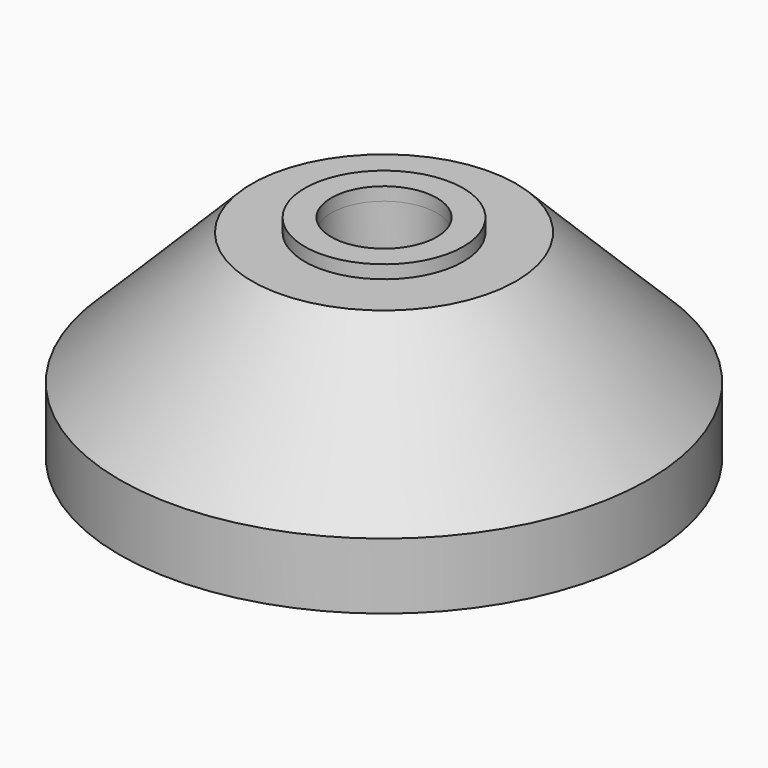
from build123d import *

# Parameters (mm, degrees)
F0_R     = 20
F1_DEPTH = 15
F2_SIZE  = 10
F3_R     = 6
F3_R_2   = 4
F4_DEPTH = 1
F5_R     = 4
F6_DEPTH = 15.001
F7_R     = 10
F8_DEPTH = 10
F9_R     = 1


with BuildPart() as f1:
    # F0 (on Top) → F1 (new body)
    with BuildSketch(Plane.XY):
        Circle(F0_R)
    extrude(amount=F1_DEPTH)

    # F2
    f2_edges = [f1.edges().sort_by_distance(p)[0] for p in [
        (-20, 0, 15),
    ]]
    chamfer(f2_edges, length=F2_SIZE)

    # F3 (on face) → F4 (join)
    with BuildSketch(Plane.XY.offset(15)):
        Circle(F3_R)
        Circle(F3_R_2, mode=Mode.SUBTRACT)
    extrude(amount=F4_DEPTH)

    # F5 (on face) → F6 (cut, through all)
    with BuildSketch(Plane.XY.offset(15)):
        Circle(F5_R)
    extrude(amount=-F6_DEPTH, mode=Mode.SUBTRACT)

    # F7 (on face) → F8 (cut)
    with BuildSketch(Plane(origin=(0, 0, 0), x_dir=(1, 0, 0), z_dir=(0, 0, -1))):
        Circle(F7_R)
    extrude(amount=-F8_DEPTH, mode=Mode.SUBTRACT)

    # F9
    f9_edges = [f1.edges().sort_by_distance(p)[0] for p in [
        (-10, 0, 10),
    ]]
    fillet(f9_edges, radius=F9_R)


solid = f1.part
